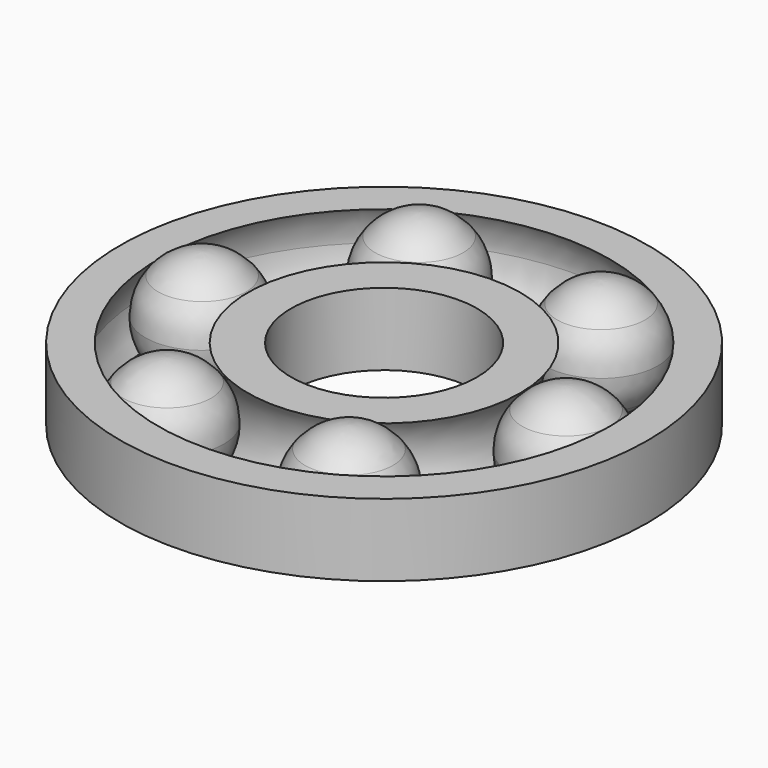
from build123d import *

# Parameters (mm, degrees)
F3_COUNT = 6


with BuildPart() as f1:
    # F0 (on Front) → F1 (revolve)
    with BuildSketch(Plane.XZ):
        with BuildLine():
            ThreePointArc((118.7801775447, 19.05), (108.4669364764, 27.2580100805), (95.645175675, 30.3136312555))
            Line((95.645175675, 30.3136312555), (95.645175675, -30.3136262145))
            ThreePointArc((95.645175675, -30.3136262145), (108.4669335633, -27.2580064578), (118.7801734729, -19.05))
            Line((118.7801734729, -19.05), (110.8633533905, -19.05))
            Line((110.8633533905, -19.05), (110.8633533905, 19.05))
            Line((110.8633533905, 19.05), (118.7801775447, 19.05))
        make_face()
        with BuildLine():
            ThreePointArc((125.5129135807, 2.5205e-06), (123.7802153134, 10.1023801924), (118.7801775447, 19.05))
            Line((118.7801775447, 19.05), (110.8633533905, 19.05))
            Line((110.8633533905, 19.05), (110.8633533905, -19.05))
            Line((110.8633533905, -19.05), (118.7801734729, -19.05))
            ThreePointArc((118.7801734729, -19.05), (123.7802142337, -10.1023782062), (125.5129135807, 2.5205e-06))
        make_face()
    revolve(axis=Axis((95.645175675, 0, 2.5205e-06), (0, 0, -1)))


with BuildPart() as f2:
    # F0 (on Front) → F2 (revolve)
    with BuildSketch(Plane.XZ):
        with BuildLine():
            Line((138.7481123993, 19.05), (118.7801775447, 19.05))
            ThreePointArc((118.7801775447, 19.05), (123.7802153134, 10.1023801924), (125.5129135807, 2.5205e-06))
            ThreePointArc((125.5129135807, 2.5205e-06), (123.7802142337, -10.1023782062), (118.7801734729, -19.05))
            Line((118.7801734729, -19.05), (138.7481123993, -19.05))
            Line((138.7481123993, -19.05), (138.7481123993, 19.05))
        make_face()
    revolve(axis=Axis((0, 0, 33.8014177978), (0, 0, 1)))


with BuildPart() as f2b:
    # F0 (on Front) → F2, piece 2 (revolve)
    with BuildSketch(Plane.XZ):
        with BuildLine():
            Line((71.6117355116, 19.05), (48.8873533905, 19.05))
            Line((48.8873533905, 19.05), (48.8873533905, -19.05))
            Line((48.8873533905, -19.05), (71.6117395835, -19.05))
            ThreePointArc((71.6117395835, -19.05), (64.8789994756, -7.195e-07), (71.6117355116, 19.05))
        make_face()
    revolve(axis=Axis((0, 0, 33.8014177978), (0, 0, 1)))


with BuildPart() as f3_1:
    # F3: instance of F1
    add(f1.part.rotate(Axis((0, 0, 33.8014177978), (0, 0, 1)), 1 * 360 / F3_COUNT))


with BuildPart() as f3_2:
    # F3: instance of F1
    add(f1.part.rotate(Axis((0, 0, 33.8014177978), (0, 0, 1)), 2 * 360 / F3_COUNT))


with BuildPart() as f3_3:
    # F3: instance of F1
    add(f1.part.rotate(Axis((0, 0, 33.8014177978), (0, 0, 1)), 3 * 360 / F3_COUNT))


with BuildPart() as f3_4:
    # F3: instance of F1
    add(f1.part.rotate(Axis((0, 0, 33.8014177978), (0, 0, 1)), 4 * 360 / F3_COUNT))


with BuildPart() as f3_5:
    # F3: instance of F1
    add(f1.part.rotate(Axis((0, 0, 33.8014177978), (0, 0, 1)), 5 * 360 / F3_COUNT))


solid = Compound([f1.part, f2.part, f2b.part, f3_1.part, f3_2.part, f3_3.part, f3_4.part, f3_5.part])
